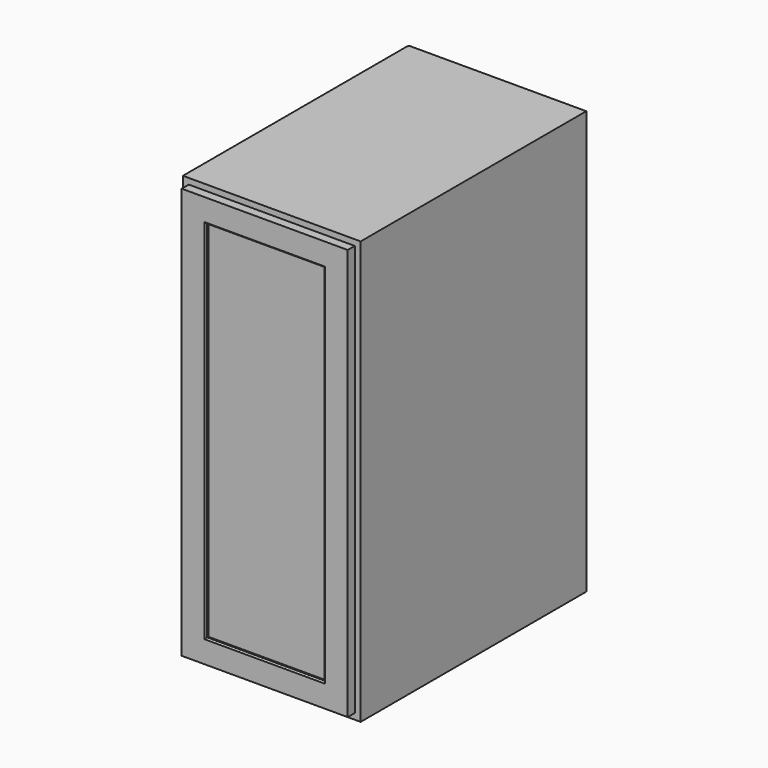
from build123d import *

# Parameters (mm, degrees)
F0_W     = 384.175
F0_H     = 609.6
F1_DEPTH = 914.4
F2_T     = -12.7
F3_W     = 384.175
F3_H     = 914.4
F3_W_2   = 368.3
F3_H_2   = 901.7
F3_W_3   = 358.775
F3_H_3   = 889
F3_W_4   = 301.625
F3_H_4   = 831.85
F4_DEPTH = 19.05
F3_W_5   = 254
F3_H_5   = 787.4
F5_DEPTH = 19.05
F6_W     = 254
F6_H     = 7.9375
F7_DEPTH = 787.4
F8_SIZE  = 3.175


with BuildPart() as f1:
    # F0 (on Top) → F1 (new body)
    with BuildSketch(Plane.XY):
        Rectangle(F0_W, F0_H)
    extrude(amount=F1_DEPTH)

    # F2
    f2_openings = [f1.faces().sort_by_distance(p)[0] for p in [
        (0, -304.8, 457.2),
    ]]
    offset(amount=F2_T, openings=f2_openings)

    # F3 (on face) → F4 (join)
    with BuildSketch(Plane.XZ.offset(304.8)):
        with Locations((0, 457.2)):
            Rectangle(F3_W, F3_H)
        with Locations((0, 457.2)):
            Rectangle(F3_W_2, F3_H_2, mode=Mode.SUBTRACT)
        with Locations((0, 457.2)):
            Rectangle(F3_W_3, F3_H_3)
        with Locations((0, 457.2)):
            Rectangle(F3_W_4, F3_H_4, mode=Mode.SUBTRACT)
    extrude(amount=-F4_DEPTH)

    # F3 (on face) → F5 (join)
    with BuildSketch(Plane.XZ.offset(304.8)):
        with Locations((0, 457.2)):
            Rectangle(F3_W_3, F3_H_3)
        with Locations((0, 457.2)):
            Rectangle(F3_W_4, F3_H_4, mode=Mode.SUBTRACT)
        with Locations((0, 457.2)):
            Rectangle(F3_W_4, F3_H_4)
        with Locations((0, 457.2)):
            Rectangle(F3_W_5, F3_H_5, mode=Mode.SUBTRACT)
    extrude(amount=F5_DEPTH)

    # F6 (on face) → F7 (join, through all)
    with BuildSketch(Plane(origin=(0, 0, 850.9), x_dir=(1, 0, 0), z_dir=(0, 0, -1))):
        with Locations((0, 313.53125)):
            Rectangle(F6_W, F6_H)
    extrude(amount=F7_DEPTH)

    # F8
    f8_edges = [f1.edges().sort_by_distance(p)[0] for p in [
        (0, -323.85, 63.5),
        (-127, -323.85, 457.2),
        (127, -323.85, 457.2),
        (0, -323.85, 850.9),
        (-192.0875, 304.8, 457.2),
    ]]
    chamfer(f8_edges, length=F8_SIZE)


solid = f1.part
